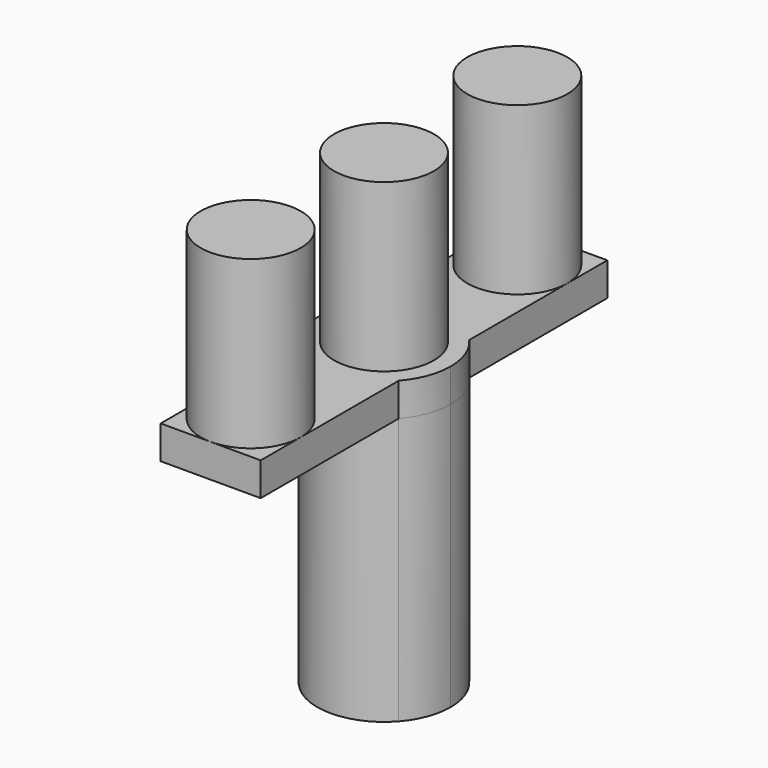
from build123d import *

# Parameters (mm, degrees)
F1_DEPTH = 5
F2_DEPTH = 30
F3_DEPTH = 40


with BuildPart() as f1:
    # F0 (on Top) → F1 (new body)
    with BuildSketch(Plane.XY):
        with BuildLine():
            Line((0, 32.5), (-7.5, 32.5))
            Line((-7.5, 32.5), (-7.5, 25))
            ThreePointArc((-7.5, 25), (-5.3033008589, 30.3033008589), (0, 32.5))
        make_face()
        with BuildLine():
            Line((7.5, 32.5), (0, 32.5))
            ThreePointArc((0, 32.5), (5.3033008589, 30.3033008589), (7.5, 25))
            Line((7.5, 25), (7.5, 32.5))
        make_face()
        with BuildLine():
            ThreePointArc((7.5, 25), (5.3033008589, 30.3033008589), (0, 32.5))
            ThreePointArc((0, 32.5), (-5.3033008589, 30.3033008589), (-7.5, 25))
            ThreePointArc((-7.5, 25), (0, 17.5), (7.5, 25))
        make_face()
        with BuildLine():
            ThreePointArc((7.5, 25), (0, 17.5), (-7.5, 25))
            Line((-7.5, 25), (-7.5, 6.6143782777))
            ThreePointArc((-7.5, 6.6143782777), (0, 10), (7.5, 6.6143782777))
            Line((7.5, 6.6143782777), (7.5, 25))
        make_face()
        with BuildLine():
            ThreePointArc((7.5, 6.6143782777), (0, 10), (-7.5, 6.6143782777))
            Line((-7.5, 6.6143782777), (-7.5, -5.5e-08))
            ThreePointArc((-7.5, -5.5e-08), (-2.75e-08, 7.5), (7.5, 0))
            Line((7.5, 0), (7.5, 6.6143782777))
        make_face()
        with BuildLine():
            Line((-7.5, -5.5e-08), (-7.5, 6.6143782777))
            ThreePointArc((-7.5, 6.6143782777), (-10, 0), (-7.5, -6.6143782777))
            Line((-7.5, -6.6143782777), (-7.5, -5.5e-08))
        make_face()
        with BuildLine():
            ThreePointArc((10, 0), (9.3541434669, 3.5355339059), (7.5, 6.6143782777))
            Line((7.5, 6.6143782777), (7.5, 0))
            Line((7.5, 0), (7.5, -6.6143782777))
            ThreePointArc((7.5, -6.6143782777), (9.3541434669, -3.5355339059), (10, 0))
        make_face()
        with BuildLine():
            ThreePointArc((7.5, 0), (2.75e-08, -7.5), (-7.5, -5.5e-08))
            Line((-7.5, -5.5e-08), (-7.5, -6.6143782777))
            ThreePointArc((-7.5, -6.6143782777), (0, -10), (7.5, -6.6143782777))
            Line((7.5, -6.6143782777), (7.5, 0))
        make_face()
        with BuildLine():
            ThreePointArc((7.5, -6.6143782777), (0, -10), (-7.5, -6.6143782777))
            Line((-7.5, -6.6143782777), (-7.5, -25.0000000374))
            ThreePointArc((-7.5, -25.0000000374), (-1.87e-08, -17.5), (7.5, -25))
            Line((7.5, -25), (7.5, -6.6143782777))
        make_face()
        with BuildLine():
            ThreePointArc((0, -32.5), (-5.3033008457, -30.3033008721), (-7.5, -25.0000000374))
            Line((-7.5, -25.0000000374), (-7.5, -32.5))
            Line((-7.5, -32.5), (0, -32.5))
        make_face()
        with BuildLine():
            ThreePointArc((7.5, -25), (-1.87e-08, -17.5), (-7.5, -25.0000000374))
            ThreePointArc((-7.5, -25.0000000374), (-5.3033008457, -30.3033008721), (0, -32.5))
            ThreePointArc((0, -32.5), (5.3033008589, -30.3033008589), (7.5, -25))
        make_face()
        with BuildLine():
            Line((7.5, -32.5), (7.5, -25))
            ThreePointArc((7.5, -25), (5.3033008589, -30.3033008589), (0, -32.5))
            Line((0, -32.5), (7.5, -32.5))
        make_face()
    extrude(amount=F1_DEPTH)


with BuildPart() as f2:
    # F0 (on Top) → F2 (new body)
    with BuildSketch(Plane.XY):
        with BuildLine():
            ThreePointArc((7.5, 0), (-2.75e-08, 7.5), (-7.5, -5.5e-08))
            ThreePointArc((-7.5, -5.5e-08), (2.75e-08, -7.5), (7.5, 0))
        make_face()
    extrude(amount=F2_DEPTH)


with BuildPart() as f2b:
    # F0 (on Top) → F2, piece 2 (new body)
    with BuildSketch(Plane.XY):
        with BuildLine():
            ThreePointArc((7.5, -25), (-1.87e-08, -17.5), (-7.5, -25.0000000374))
            ThreePointArc((-7.5, -25.0000000374), (-5.3033008457, -30.3033008721), (0, -32.5))
            ThreePointArc((0, -32.5), (5.3033008589, -30.3033008589), (7.5, -25))
        make_face()
    extrude(amount=F2_DEPTH)


with BuildPart() as f2c:
    # F0 (on Top) → F2, piece 3 (new body)
    with BuildSketch(Plane.XY):
        with BuildLine():
            ThreePointArc((7.5, 25), (5.3033008589, 30.3033008589), (0, 32.5))
            ThreePointArc((0, 32.5), (-5.3033008589, 30.3033008589), (-7.5, 25))
            ThreePointArc((-7.5, 25), (0, 17.5), (7.5, 25))
        make_face()
    extrude(amount=F2_DEPTH)


with BuildPart() as f3:
    # F0 (on Top) → F3 (new body)
    with BuildSketch(Plane.XY):
        with BuildLine():
            Line((-7.5, -5.5e-08), (-7.5, 6.6143782777))
            ThreePointArc((-7.5, 6.6143782777), (-10, 0), (-7.5, -6.6143782777))
            Line((-7.5, -6.6143782777), (-7.5, -5.5e-08))
        make_face()
        with BuildLine():
            ThreePointArc((7.5, 6.6143782777), (0, 10), (-7.5, 6.6143782777))
            Line((-7.5, 6.6143782777), (-7.5, -5.5e-08))
            ThreePointArc((-7.5, -5.5e-08), (-2.75e-08, 7.5), (7.5, 0))
            Line((7.5, 0), (7.5, 6.6143782777))
        make_face()
        with BuildLine():
            ThreePointArc((10, 0), (9.3541434669, 3.5355339059), (7.5, 6.6143782777))
            Line((7.5, 6.6143782777), (7.5, 0))
            Line((7.5, 0), (7.5, -6.6143782777))
            ThreePointArc((7.5, -6.6143782777), (9.3541434669, -3.5355339059), (10, 0))
        make_face()
        with BuildLine():
            ThreePointArc((7.5, 0), (2.75e-08, -7.5), (-7.5, -5.5e-08))
            Line((-7.5, -5.5e-08), (-7.5, -6.6143782777))
            ThreePointArc((-7.5, -6.6143782777), (0, -10), (7.5, -6.6143782777))
            Line((7.5, -6.6143782777), (7.5, 0))
        make_face()
        with BuildLine():
            ThreePointArc((7.5, 0), (-2.75e-08, 7.5), (-7.5, -5.5e-08))
            ThreePointArc((-7.5, -5.5e-08), (2.75e-08, -7.5), (7.5, 0))
        make_face()
    extrude(amount=-F3_DEPTH)


solid = Compound([f1.part, f2.part, f2b.part, f2c.part, f3.part])
